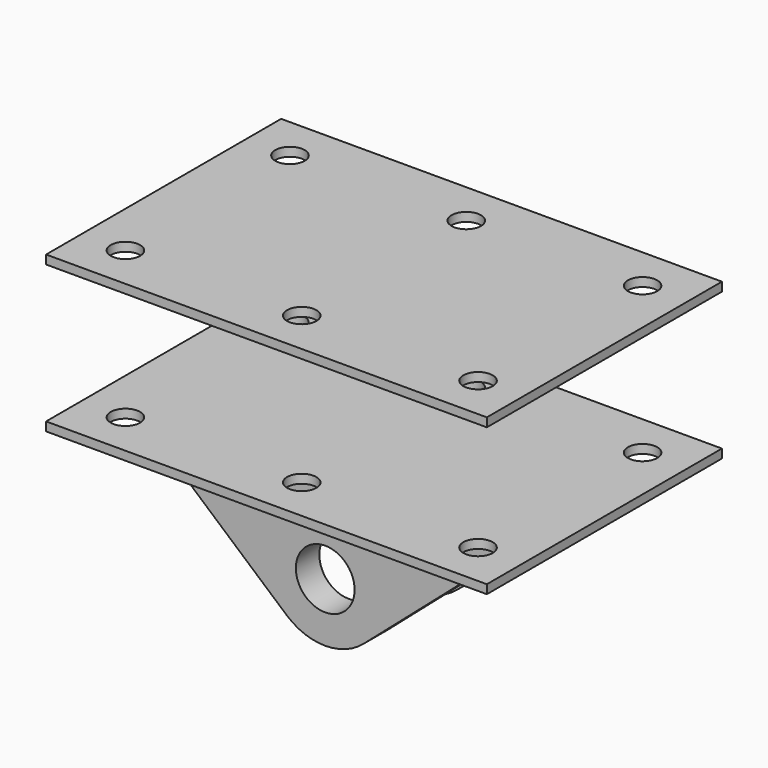
from build123d import *

# Parameters (mm, degrees)
F0_W     = 150
F0_H     = 100
F0_R     = 5
F3_DEPTH = 224
F2_R     = 10
F2_W     = 150
F2_H     = 3
F4_DEPTH = 50
F1_W     = 110
F1_H     = 3
F5_DEPTH = 630


with BuildPart() as f3:
    # F0 (on Top) → F3 (new body, symmetric)
    with BuildSketch(Plane.XY):
        Rectangle(F0_W, F0_H)
        with Locations((-60, -35)):
            Circle(F0_R, mode=Mode.SUBTRACT)
        with Locations((0, -35)):
            Circle(F0_R, mode=Mode.SUBTRACT)
        with Locations((60, -35)):
            Circle(F0_R, mode=Mode.SUBTRACT)
        with Locations((-60, 35)):
            Circle(F0_R, mode=Mode.SUBTRACT)
        with Locations((0, 35)):
            Circle(F0_R, mode=Mode.SUBTRACT)
        with Locations((60, 35)):
            Circle(F0_R, mode=Mode.SUBTRACT)
    extrude(amount=F3_DEPTH, both=True)

    # F2 (on Front) → F4 (intersect, symmetric)
    with BuildSketch(Plane.XZ):
        with BuildLine():
            ThreePointArc((-13.1206207326, -45.094678254), (0, -50), (13.1206207326, -45.094678254))
            Line((13.1206207326, -45.094678254), (65, 0))
            Line((65, 0), (20, 0))
            Line((20, 0), (-20, 0))
            Line((-20, 0), (-65, 0))
            Line((-65, 0), (-13.1206207326, -45.094678254))
        make_face()
        with Locations((0, -30)):
            Circle(F2_R, mode=Mode.SUBTRACT)
        Polygon((20, 0), (65, 0), (75, 0), (75, 3), (-75, 3), (-75, 0), (-65, 0), (-20, 0), align=None)
        with Locations((0, 51.5)):
            Rectangle(F2_W, F2_H)
    extrude(amount=F4_DEPTH, both=True, mode=Mode.INTERSECT)

    # F1 (on Right) → F5 (intersect, symmetric)
    with BuildSketch(Plane.YZ):
        Polygon((-15, -100), (-15, 0), (15, 0), (15, -100), (25, -100), (25, 0), (55, 0), (55, 3), (-55, 3), (-55, 0), (-25, 0), (-25, -100), align=None)
        with Locations((0, 51.5)):
            Rectangle(F1_W, F1_H)
    extrude(amount=F5_DEPTH, both=True, mode=Mode.INTERSECT)


solid = f3.part
